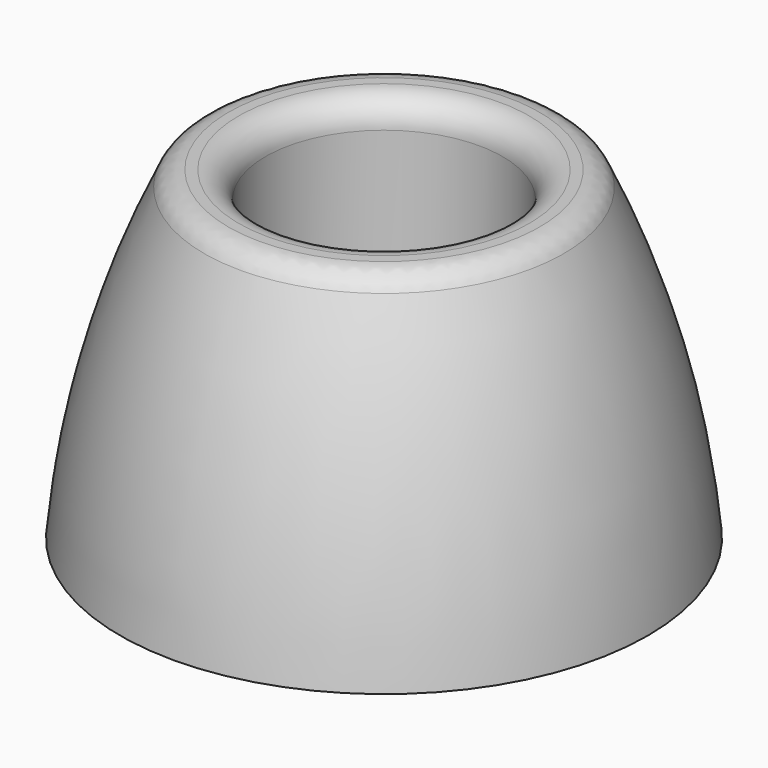
from build123d import *

# Parameters (mm, degrees)
F2_R = 2.5


with BuildPart() as f1:
    # F0 (on Right) → F1 (revolve)
    with BuildSketch(Plane.YZ):
        with BuildLine():
            Line((-11, 0), (-11, 20))
            Line((-11, 20), (-16, 20))
            ThreePointArc((-16, 20), (-21.661476, 5.34859), (-24.5, -10.1))
            Line((-24.5, -10.1), (-19.5, -10.1))
            Line((-19.5, -10.1), (-19.5, -0.1))
            Line((-19.5, -0.1), (-11, -0.1))
            Line((-11, -0.1), (-11, 0))
        make_face()
    revolve(axis=Axis((0, 0, -0.05), (0, 0, -1)))

    # F2
    f2_edges = [f1.edges().sort_by_distance(p)[0] for p in [
        (0, 11, 20),
        (0, 16, 20),
    ]]
    fillet(f2_edges, radius=F2_R)


solid = f1.part
